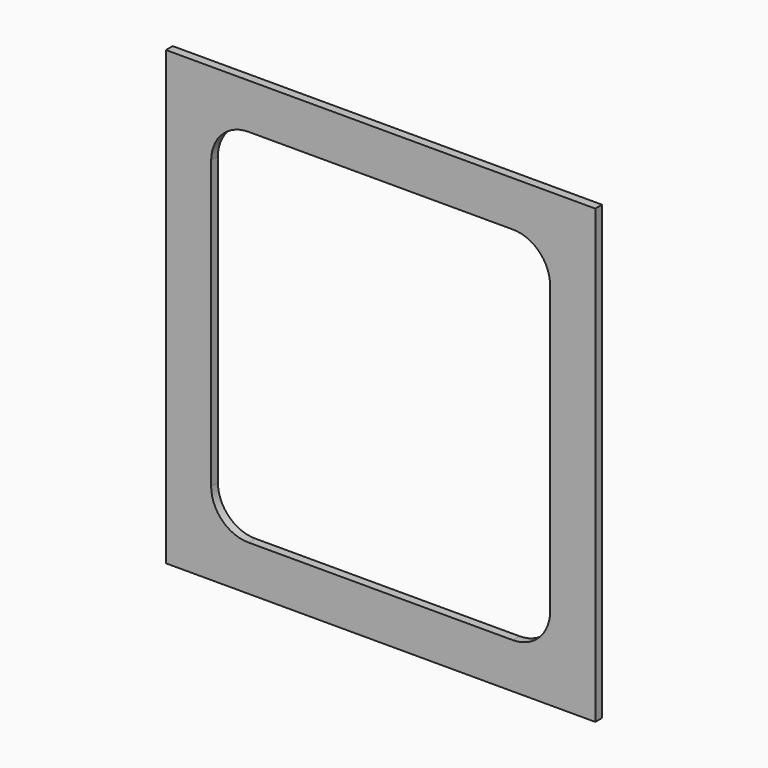
from build123d import *

# Parameters (mm, degrees)
F0_W     = 482.6
F0_H     = 508
F1_DEPTH = 9.525


with BuildPart() as f1:
    # F0 (on Front) → F1 (new body)
    with BuildSketch(Plane.XZ):
        with Locations((-55.20353, 334.813255)):
            Rectangle(F0_W, F0_H)
        with BuildLine():
            ThreePointArc((135.29647, 173.523255), (123.021315, 143.888409), (93.38647, 131.613255))
            Line((93.38647, 131.613255), (-203.79353, 131.613255))
            ThreePointArc((-203.79353, 131.613255), (-233.428375, 143.888409), (-245.70353, 173.523255))
            Line((-245.70353, 173.523255), (-245.70353, 496.103255))
            ThreePointArc((-245.70353, 496.103255), (-233.428375, 525.7381), (-203.79353, 538.013255))
            Line((-203.79353, 538.013255), (93.38647, 538.013255))
            ThreePointArc((93.38647, 538.013255), (123.021315, 525.7381), (135.29647, 496.103255))
            Line((135.29647, 496.103255), (135.29647, 173.523255))
        make_face(mode=Mode.SUBTRACT)
    extrude(amount=F1_DEPTH)


with BuildPart() as f2_1:
    # F2: copy of F1
    add(f1.part.moved(Location((0, 482.6, 0))))


solid = f1.part
